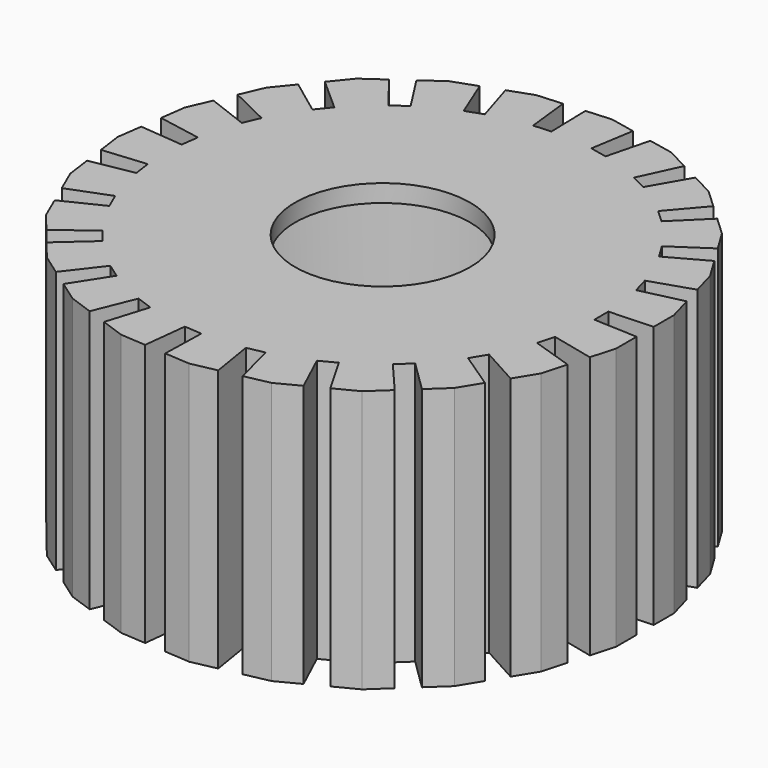
from build123d import *

# Parameters (mm, degrees)
F0_R     = 5
F1_DEPTH = 15
F2_R     = 11.5
F3_DEPTH = 14


with BuildPart() as f1:
    # F0 (on Top) → F1 (new body)
    with BuildSketch(Plane.XY):
        Polygon((15, 0.609152), (15, 2.061703), (14.608107, 3.460388), (12.171364, 2.891001), (11.901568, 3.853918), (14.279412, 4.633515), (13.887519, 6.032201), (13.132797, 7.273288), (10.940035, 6.06759), (10.420451, 6.922009), (12.499785, 8.314231), (11.745064, 9.555318), (10.683488, 10.546761), (8.897332, 8.794173), (8.166496, 9.476726), (9.793107, 11.378318), (8.731531, 12.369761), (7.441833, 13.038029), (6.194756, 10.868533), (5.30687, 11.328598), (6.360118, 13.598528), (5.07042, 14.266796), (3.648252, 14.562326), (3.032742, 12.136823), (2.053658, 12.340279), (2.455429, 14.810197), (1.03326, 15.105727), (-0.415904, 15.006602), (-0.354196, 12.504981), (-1.351865, 12.436738), (-1.631368, 14.923462), (-3.080532, 14.824336), (-4.449214, 14.337907), (-3.714865, 11.945701), (-4.657126, 11.610822), (-5.597175, 13.929921), (-6.965856, 13.443492), (-8.152546, 12.605835), (-6.800019, 10.500464), (-7.616989, 9.923784), (-9.147864, 11.903262), (-10.334554, 11.065605), (-11.251241, 9.938846), (-9.380847, 8.276455), (-10.011935, 7.500744), (-12.020098, 8.993793), (-12.936785, 7.867033), (-13.515483, 6.534738), (-11.265941, 5.438619), (-11.664342, 4.521408), (-14.000856, 5.417295), (-14.579554, 4.084999), (-14.777343, 2.645978), (-12.315491, 2.197426), (-12.451658, 1.20674), (-14.943235, 1.439021), (-15.141024, 0), (-14.943235, -1.439021), (-12.451658, -1.20674), (-12.315491, -2.197426), (-14.777343, -2.645978), (-14.579554, -4.084999), (-14.000856, -5.417295), (-11.664342, -4.521408), (-11.265941, -5.438619), (-13.515483, -6.534738), (-12.936785, -7.867033), (-12.020098, -8.993793), (-10.011935, -7.500744), (-9.380847, -8.276455), (-11.251241, -9.938846), (-10.334554, -11.065605), (-9.147864, -11.903262), (-7.616989, -9.923784), (-6.800019, -10.500464), (-8.152546, -12.605835), (-6.965856, -13.443492), (-5.597175, -13.929921), (-4.657126, -11.610822), (-3.714865, -11.945701), (-4.449214, -14.337907), (-3.080532, -14.824336), (-1.631368, -14.923462), (-1.351865, -12.436738), (-0.354196, -12.504981), (-0.415904, -15.006602), (1.03326, -15.105727), (2.455429, -14.810197), (2.053658, -12.340279), (3.032742, -12.136823), (3.648252, -14.562326), (5.07042, -14.266796), (6.360118, -13.598528), (5.30687, -11.328598), (6.194756, -10.868533), (7.441833, -13.038029), (8.731531, -12.369761), (9.793107, -11.378318), (8.166496, -9.476726), (8.897332, -8.794173), (10.683488, -10.546761), (11.745064, -9.555318), (12.499785, -8.314231), (10.420451, -6.922009), (10.940035, -6.06759), (13.132797, -7.273288), (13.887519, -6.032201), (14.279412, -4.633515), (11.901568, -3.853918), (12.171364, -2.891001), (14.608107, -3.460388), (15, -2.061703), (15, -0.609152), (12.5, -0.5), (12.5, 0.5), align=None)
        Circle(F0_R, mode=Mode.SUBTRACT)
    extrude(amount=F1_DEPTH)

    # F2 (on face) → F3 (cut)
    with BuildSketch(Plane(origin=(0, 0, 0), x_dir=(1, 0, 0), z_dir=(0, 0, -1))):
        Circle(F2_R)
    extrude(amount=-F3_DEPTH, mode=Mode.SUBTRACT)


solid = f1.part
